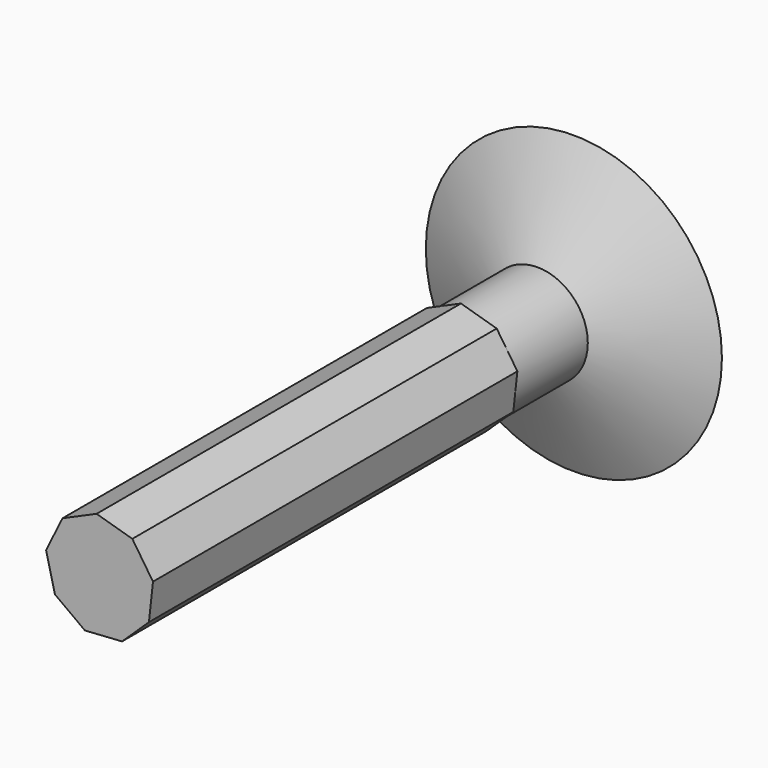
from build123d import *

# Parameters (mm, degrees)
F1_DEPTH  = 150
F2_R      = 16.5902207369
F3_DEPTH  = 30
F3_FACE_R = 16.5902207369
F4_DEPTH  = 15
F4_TAPER  = -65


with BuildPart() as f1:
    # F0 (on Front) → F1 (new body)
    with BuildSketch(Plane.XZ):
        Polygon((-5.0131896813, -17.1994746155), (7.2152830783, -16.3979781659), (16.0676446966, -7.9236854892), (17.4017767894, 4.2581876898), (10.5934241232, 14.4476075243), (-1.171709423, 17.8768312309), (-12.3885871081, 12.9412869257), (-17.8087072015, 1.9503706416), (-14.8959352736, -9.9531457416), align=None)
    extrude(amount=F1_DEPTH)

    # F2 (on Front) → F3 (join)
    with BuildSketch(Plane.XZ):
        Circle(F2_R)
    extrude(amount=-F3_DEPTH)

    # F3_face (on face) → F4 (join)
    with BuildSketch(Plane(origin=(0, 30, 0), x_dir=(1, 0, 0), z_dir=(0, 1, 0))):
        Circle(F3_FACE_R)
    extrude(amount=F4_DEPTH, taper=F4_TAPER)


solid = f1.part
